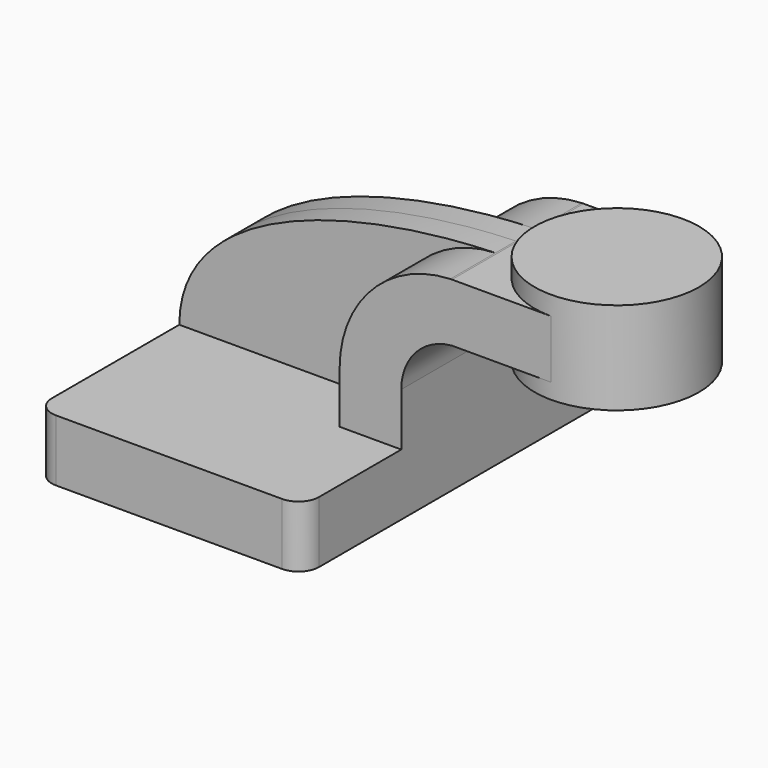
from build123d import *

# Parameters (mm, degrees)
F1_DEPTH = 63.5
F0_W     = 25.4
F0_H     = 17.965186498
F2_DEPTH = 25.4
F3_DEPTH = 7.9375
F5_R     = 6.35


with BuildPart() as f1:
    # F0 (on Front) → F1 (new body, symmetric)
    with BuildSketch(Plane.XZ):
        Polygon((38.8800390695, 20.1806084275), (-24.6199609305, 20.1806084275), (-24.6199609305, 1.1306084275), (57.9300390695, 1.1306084275), (57.9300390695, 20.1806084275), align=None)
    extrude(amount=F1_DEPTH, both=True)

    # F0 (on Front) → F2 (join, symmetric)
    with BuildSketch(Plane.XZ):
        with Locations((91.4859331562, 62.5134016765)):
            Rectangle(F0_W, F0_H)
        with BuildLine():
            Line((38.8800390695, 36.0163077712), (38.8800390695, 20.1806084275))
            Line((38.8800390695, 20.1806084275), (57.9300390695, 20.1806084275))
            Line((57.9300390695, 20.1806084275), (57.9300390695, 36.5266351785))
            ThreePointArc((57.9300390695, 36.5266351785), (62.4384600836, 48.0819539272), (73.5812261701, 53.5308084275))
            Line((73.5812261701, 53.5308084275), (78.7859331562, 53.5308084275))
            Line((78.7859331562, 53.5308084275), (78.7859331562, 71.4959949255))
            Line((78.7859331562, 71.4959949255), (73.5812261701, 71.4959949255))
            add(Edge.make_bspline(
                [(73.0621663059, 71.4806777175), (73.2353354158, 71.485987393), (73.4083566499, 71.4910929714), (73.5812261701, 71.4959949255)],
                knots=[110.3659801148, 110.3659801148, 110.3659801148, 110.3659801148, 110.8004604656, 110.8004604656, 110.8004604656, 110.8004604656], degree=3))
            ThreePointArc((73.0621663059, 71.4806777175), (48.816685952, 60.6442358108), (38.8800390695, 36.0163077712))
        make_face()
    extrude(amount=F2_DEPTH, both=True)

    # F0 (on Front) → F3 (join, symmetric)
    with BuildSketch(Plane.XZ):
        with BuildLine():
            add(Edge.make_bspline(
                [(-24.6199609305, 20.1806084275), (-24.4558339647, 55.6137443141), (29.0740353989, 70.1319227371), (73.0621663059, 71.4806777175)],
                knots=[0, 0, 0, 0, 110.3659801148, 110.3659801148, 110.3659801148, 110.3659801148], degree=3))
            Line((-24.6199609305, 20.1806084275), (38.8800390695, 20.1806084275))
            Line((38.8800390695, 20.1806084275), (38.8800390695, 36.0163077712))
            ThreePointArc((38.8800390695, 36.0163077712), (48.816685952, 60.6442358108), (73.0621663059, 71.4806777175))
        make_face()
    extrude(amount=F3_DEPTH, both=True)

    # F0 (on Front) → F4 (revolve)
    with BuildSketch(Plane.XZ):
        Polygon((104.1859331562, 77.3306084275), (104.1859331562, 71.4959949255), (104.1859331562, 53.5308084275), (104.1859331562, 48.7556084275), (129.5859331562, 48.7556084275), (129.5859331562, 77.3306084275), align=None)
    revolve(axis=Axis((104.1859331562, 0, 63.0431084275), (0, 0, -1)))

    # F5
    f5_edges = [f1.edges().sort_by_distance(p)[0] for p in [
        (57.930039, 63.5, 10.655608),
        (57.930039, -63.5, 10.655608),
        (-24.619961, 63.5, 10.655608),
        (-24.619961, -63.5, 10.655608),
    ]]
    fillet(f5_edges, radius=F5_R)


solid = f1.part
